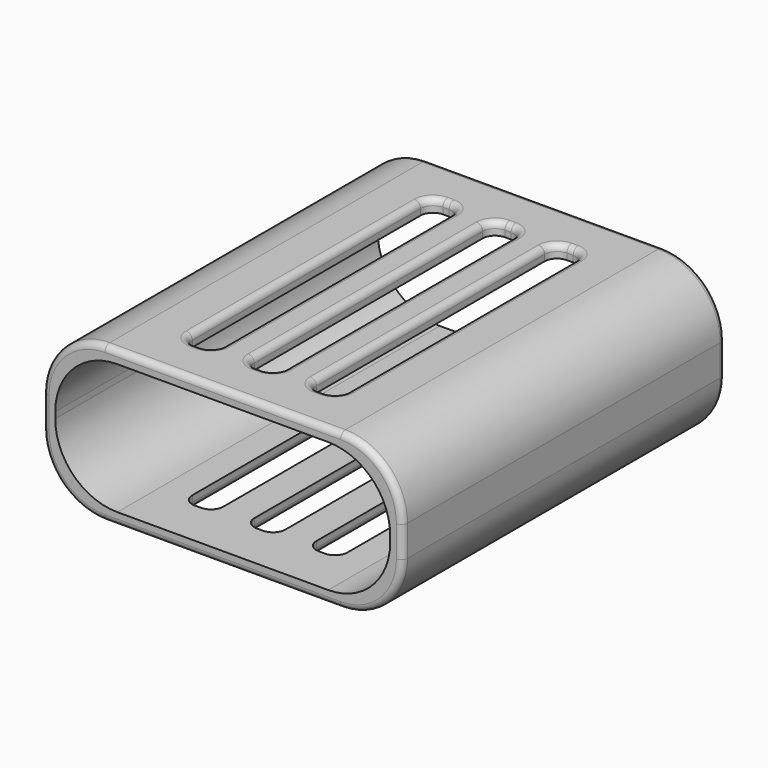
from build123d import *

# Parameters (mm, degrees)
SKETCH_W     = 58
SKETCH_H     = 25
SKETCH_W_2   = 54
SKETCH_H_2   = 21
PAD_DEPTH    = 65
FILLET_R     = 10
SKETCH001_W  = 5
SKETCH001_H  = 50
POCKET_DEPTH = 25.001
FILLET001_R  = 2
FILLET002_R  = 1
FILLET003_R  = 1


with BuildPart() as part:
    # Sketch → Pad (new body)
    with BuildSketch(Plane.XZ):
        Rectangle(SKETCH_W, SKETCH_H)
        Rectangle(SKETCH_W_2, SKETCH_H_2, mode=Mode.SUBTRACT)
    extrude(amount=PAD_DEPTH)

    # Fillet
    fillet_edges = [part.edges().sort_by_distance(p)[0] for p in [
        (-29, -32.5, 12.5),
        (27, -32.5, -10.5),
        (27, -32.5, 10.5),
        (-29, -32.5, -12.5),
        (29, -32.5, -12.5),
        (-27, -32.5, -10.5),
        (29, -32.5, 12.5),
        (-27, -32.5, 10.5),
    ]]
    fillet(fillet_edges, radius=FILLET_R)

    # Sketch001 (on Face7 of Fillet) → Pocket (cut, through all)
    with BuildSketch(Plane(origin=(0, 0, 12.5), x_dir=(-1, 0, 0), z_dir=(0, 0, 1))):
        with Locations((0, 32.5)):
            Rectangle(SKETCH001_W, SKETCH001_H)
        with Locations((-10, 32.5)):
            Rectangle(SKETCH001_W, SKETCH001_H)
        with Locations((10, 32.5)):
            Rectangle(SKETCH001_W, SKETCH001_H)
    extrude(amount=-POCKET_DEPTH, mode=Mode.SUBTRACT)

    # Fillet001
    fillet001_edges = [part.edges().sort_by_distance(p)[0] for p in [
        (-12.5, -57.5, 11.5),
        (-2.5, -57.5, 11.5),
        (7.5, -57.5, 11.5),
        (12.5, -57.5, 11.5),
        (2.5, -57.5, 11.5),
        (-7.5, -57.5, 11.5),
        (12.5, -7.5, 11.5),
        (2.5, -7.5, 11.5),
        (-7.5, -7.5, 11.5),
        (-12.5, -7.5, 11.5),
        (-2.5, -7.5, 11.5),
        (7.5, -7.5, 11.5),
        (-2.5, -7.5, -11.5),
        (-12.5, -7.5, -11.5),
        (-7.5, -7.5, -11.5),
        (2.5, -7.5, -11.5),
        (12.5, -7.5, -11.5),
        (7.5, -7.5, -11.5),
        (-12.5, -57.5, -11.5),
        (-2.5, -57.5, -11.5),
        (7.5, -57.5, -11.5),
        (12.5, -57.5, -11.5),
        (2.5, -57.5, -11.5),
        (-7.5, -57.5, -11.5),
    ]]
    fillet(fillet001_edges, radius=FILLET001_R)

    # Fillet002
    fillet002_edges = [part.edges().sort_by_distance(p)[0] for p in [
        (-26.071068, 0, -9.571068),
        (-26.071068, -65, -9.571068),
    ]]
    fillet(fillet002_edges, radius=FILLET002_R)

    # Fillet003
    fillet003_edges = [part.edges().sort_by_distance(p)[0] for p in [
        (-12.5, -32.5, -12.5),
        (-2.5, -32.5, -12.5),
        (7.5, -32.5, -12.5),
        (12.5, -32.5, 12.5),
        (2.5, -32.5, 12.5),
        (-7.5, -32.5, 12.5),
    ]]
    fillet(fillet003_edges, radius=FILLET003_R)


solid = part.part
